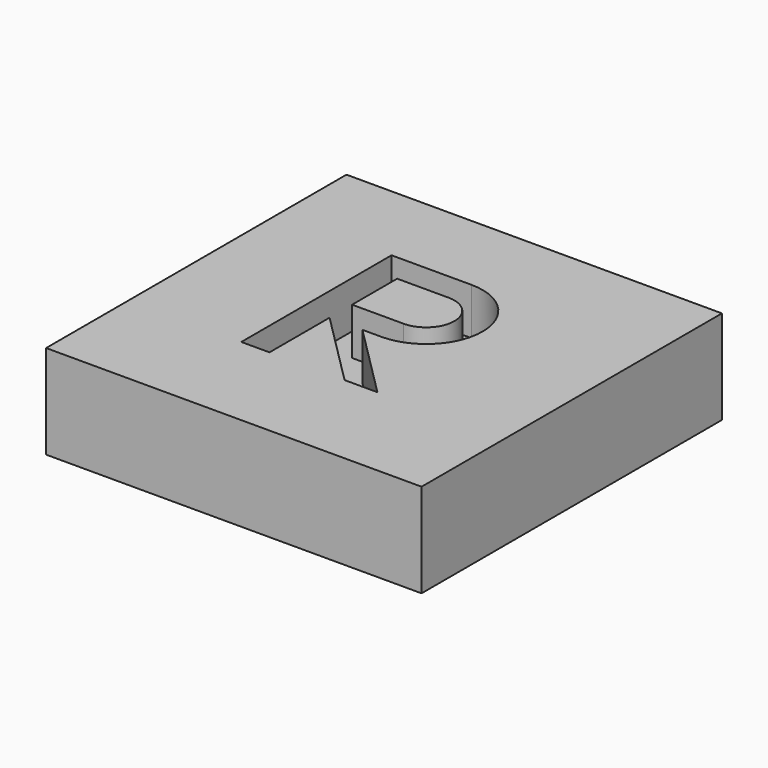
from build123d import *

# Parameters (mm, degrees)
SKETCH_W     = 40
SKETCH_H     = 40
PAD_DEPTH    = 10
POCKET_DEPTH = 5


with BuildPart() as part:
    # Sketch → Pad (new body)
    with BuildSketch(Plane.XY):
        Rectangle(SKETCH_W, SKETCH_H)
    extrude(amount=PAD_DEPTH)

    # Sketch001 (on Face6 of Pad) → Pocket (cut)
    with BuildSketch(Plane.XY.offset(10)):
        with BuildLine():
            Line((-8, -9), (-8, 11))
            Line((0.5, 11), (-8, 11))
            ThreePointArc((0.5, -1), (6.5, 5), (0.5, 11))
            Line((-1.5, -1), (0.5, -1))
            Line((6.5, -9), (-1.5, -1))
            Line((3, -9), (6.5, -9))
            Line((-5, -1), (3, -9))
            Line((-5, -9), (-5, -1))
            Line((-8, -9), (-5, -9))
        make_face()
        with BuildLine():
            ThreePointArc((0.5, 2), (3.5, 5), (0.5, 8))
            Line((0.5, 8), (-5, 8))
            Line((-5, 8), (-5, 2))
            Line((-5, 2), (0.5, 2))
        make_face(mode=Mode.SUBTRACT)
    extrude(amount=-POCKET_DEPTH, mode=Mode.SUBTRACT)


solid = part.part
